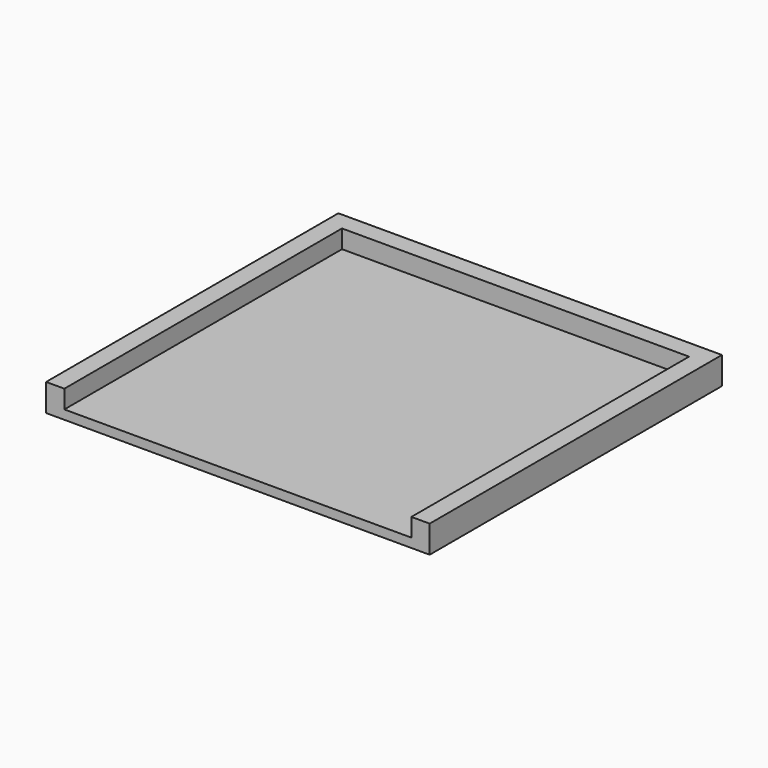
from build123d import *

# Parameters (mm, degrees)
F1_DEPTH = 12.7
F2_W     = 482.6
F2_H     = 25.4
F3_DEPTH = 25.4


with BuildPart() as f1:
    # F0 (on Top) → F1 (new body)
    with BuildSketch(Plane.XY):
        Polygon((-241.3, 254), (-266.7, 254), (-266.7, -254), (266.7, -254), (266.7, 254), (241.3, 254), align=None)
    extrude(amount=F1_DEPTH)

    # F2 (on face) → F3 (join)
    with BuildSketch(Plane.XY.offset(12.7)):
        with Locations((0, 241.3)):
            Rectangle(F2_W, F2_H)
        Polygon((-241.3, 254), (-266.7, 254), (-266.7, -254), (-241.3, -254), (-241.3, 228.6), align=None)
        Polygon((266.7, 254), (241.3, 254), (241.3, 228.6), (241.3, -254), (266.7, -254), align=None)
    extrude(amount=F3_DEPTH)


solid = f1.part
